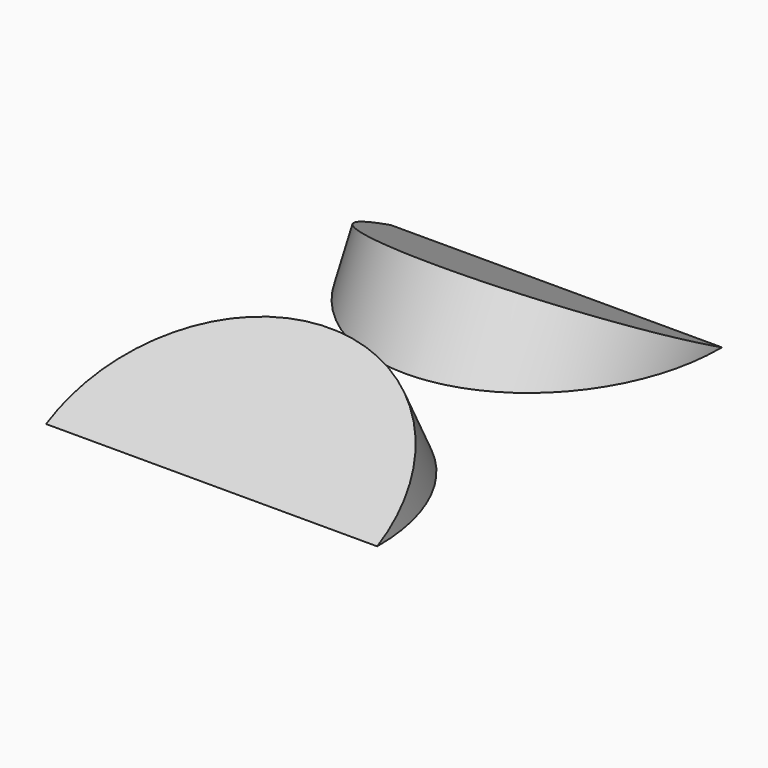
from build123d import *

# Parameters (mm, degrees)
F0_R     = 750
F1_DEPTH = 400
F2_ANGLE = -27.8265049099
F0_W     = 1825.8036160891
F0_H     = 1738.2475137711
F3_DEPTH = 1100


with BuildPart() as f1:
    # F0 (on Top) → F1 (new body)
    with BuildSketch(Plane.XY):
        Circle(F0_R)
    extrude(amount=F1_DEPTH)


with BuildPart() as f1_1:
    # F2: moved
    add(f1.part.rotate(Axis((-40.2899682522, 750, 0), (-1, 0, 0)), F2_ANGLE))

    # F0 (on Top) → F3 (cut)
    with BuildSketch(Plane.XY):
        Rectangle(F0_W, F0_H)
        Circle(F0_R, mode=Mode.SUBTRACT)
        Circle(F0_R)
    extrude(amount=-F3_DEPTH, mode=Mode.SUBTRACT)


with BuildPart() as f5_1:
    # F5: instance of F1
    add(f1_1.part.mirror(Plane.XZ.offset(-869.1237568855)))


solid = Compound([f1_1.part, f5_1.part])
